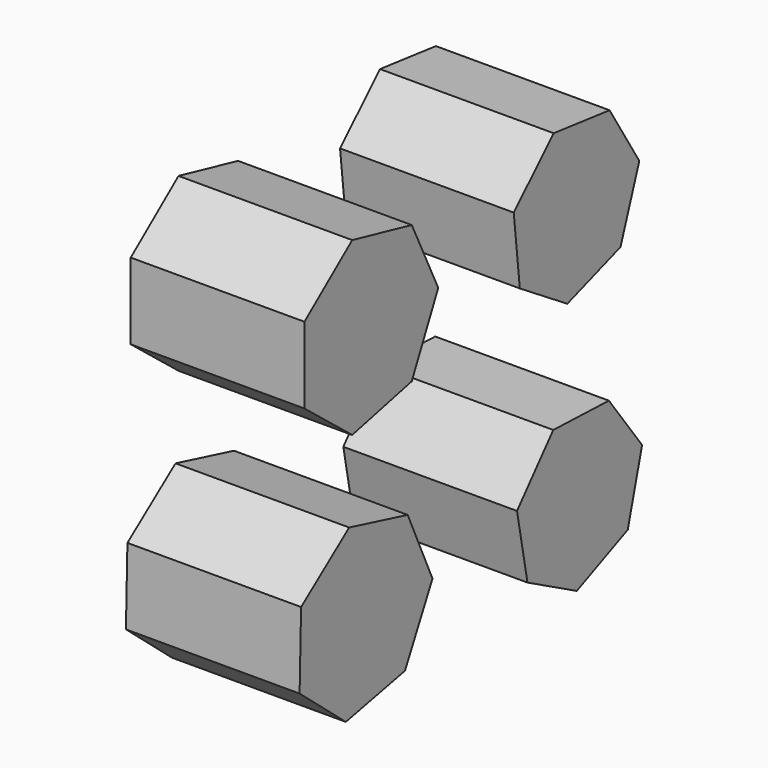
from build123d import *

# Parameters (mm, degrees)
F2_DEPTH = 50.8


with BuildPart() as f2:
    # F0 (on Right) → F2 (new body)
    with BuildSketch(Plane.YZ):
        Polygon((-59.752692, 44.546535), (-59.752692, 22.213401), (-42.291945, 8.28892), (-20.518749, 13.25851), (-10.828766, 33.379968), (-20.518749, 53.501426), (-42.291945, 58.471016), align=None)
        Polygon((-22.995118, -60.26893), (-12.932937, -40.635408), (-22.009376, -20.527178), (-43.38969, -15.086147), (-60.974067, -28.409522), (-61.521113, -50.46453), (-44.618891, -64.643301), align=None)
        Polygon((31.215376, -20.298284), (17.962751, -35.759676), (21.788077, -55.761016), (39.810807, -65.240887), (58.459456, -57.060753), (63.691212, -37.380421), (51.566456, -21.019583), align=None)
        Polygon((55.807209, 16.806075), (62.678942, 36.194181), (51.805166, 53.655004), (31.374056, 56.040188), (16.770656, 41.553642), (18.991622, 21.10403), (36.364523, 10.090326), align=None)
    extrude(amount=F2_DEPTH)


solid = f2.part
